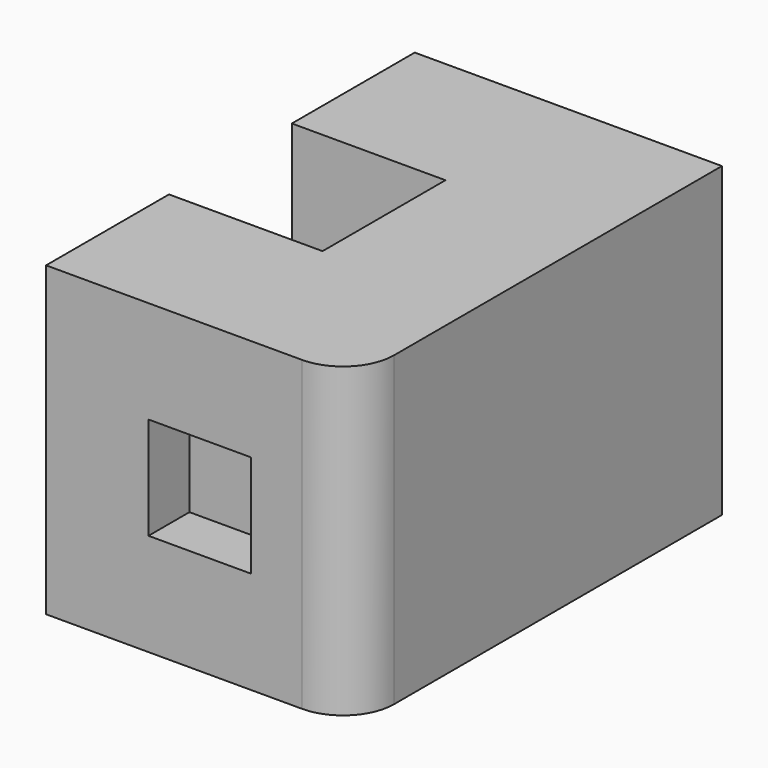
from build123d import *

# Parameters (mm, degrees)
F0_W     = 228.6
F0_H     = 152.4
F1_DEPTH = 76.2
F2_W     = 76.2
F2_H     = 127
F3_DEPTH = 76.2
F4_R     = 25.4
F5_W     = 50.8
F5_H     = 50.8
F6_DEPTH = 25.4


with BuildPart() as f1:
    # F0 (on Right) → F1 (new body, symmetric)
    with BuildSketch(Plane.YZ):
        with Locations((-114.3, 76.2)):
            Rectangle(F0_W, F0_H)
    extrude(amount=F1_DEPTH, both=True)

    # F2 (on face) → F3 (cut)
    with BuildSketch(Plane(origin=(-76.2, 0, 0), x_dir=(0, -1, 0), z_dir=(-1, 0, 0))):
        with Locations((114.3, 88.9)):
            Rectangle(F2_W, F2_H)
    extrude(amount=-F3_DEPTH, mode=Mode.SUBTRACT)

    # F4
    f4_edges = [f1.edges().sort_by_distance(p)[0] for p in [
        (76.2, -228.6, 76.2),
    ]]
    fillet(f4_edges, radius=F4_R)

    # F5 (on face) → F6 (cut)
    with BuildSketch(Plane.XZ.offset(228.6)):
        with Locations((0, 76.2)):
            Rectangle(F5_W, F5_H)
    extrude(amount=-F6_DEPTH, mode=Mode.SUBTRACT)


solid = f1.part
